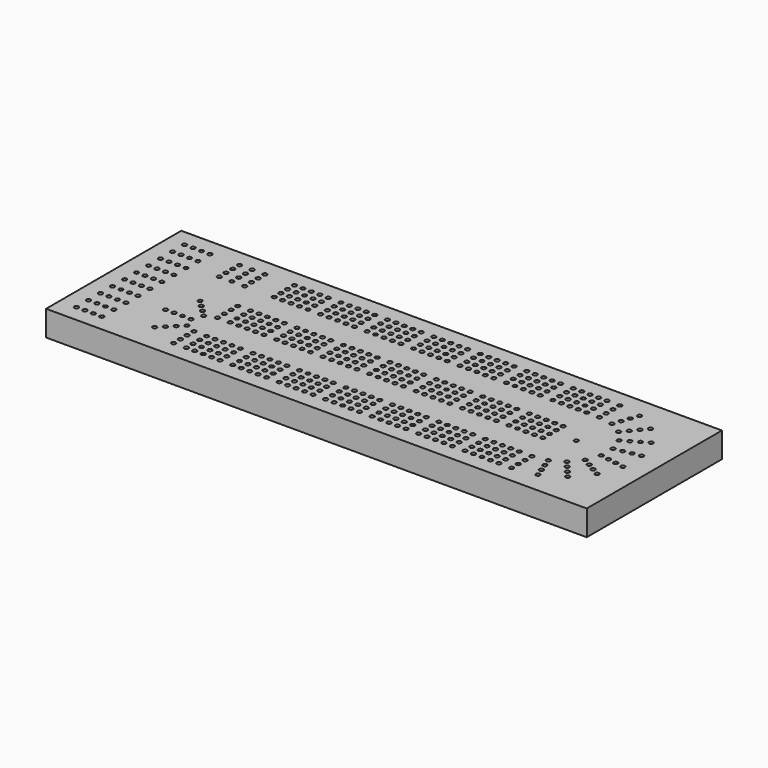
from build123d import *

# Parameters (mm, degrees)
F1_DEPTH = 19.05
F2_R     = 1.5875
F3_DEPTH = 9.525


with BuildPart() as f1:
    # F0 (on Top) → F1 (new body)
    with BuildSketch(Plane.XY):
        Polygon((-25.4, 0), (0, 0), (381, 0), (381, 127), (0, 127), (-25.4, 127), align=None)
    extrude(amount=F1_DEPTH)

    # F2 (on face) → F3 (cut)
    with BuildSketch(Plane.XY.offset(19.05)):
        with Locations((69.85, 114.3)):
            Circle(F2_R)
        with Locations((69.85, 107.95)):
            Circle(F2_R)
        with Locations((69.85, 101.6)):
            Circle(F2_R)
        with Locations((69.85, 95.25)):
            Circle(F2_R)
        with Locations((76.2, 114.3)):
            Circle(F2_R)
        with Locations((76.2, 107.95)):
            Circle(F2_R)
        with Locations((76.2, 101.6)):
            Circle(F2_R)
        with Locations((76.2, 95.25)):
            Circle(F2_R)
        with Locations((82.55, 114.3)):
            Circle(F2_R)
        with Locations((82.55, 107.95)):
            Circle(F2_R)
        with Locations((82.55, 101.6)):
            Circle(F2_R)
        with Locations((82.55, 95.25)):
            Circle(F2_R)
        with Locations((88.9, 114.3)):
            Circle(F2_R)
        with Locations((88.9, 107.95)):
            Circle(F2_R)
        with Locations((88.9, 101.6)):
            Circle(F2_R)
        with Locations((88.9, 95.25)):
            Circle(F2_R)
        with Locations((95.25, 114.3)):
            Circle(F2_R)
        with Locations((95.25, 107.95)):
            Circle(F2_R)
        with Locations((95.25, 101.6)):
            Circle(F2_R)
        with Locations((95.25, 95.25)):
            Circle(F2_R)
        with Locations((123.825, 95.25)):
            Circle(F2_R)
        with Locations((117.475, 95.25)):
            Circle(F2_R)
        with Locations((117.475, 114.3)):
            Circle(F2_R)
        with Locations((130.175, 95.25)):
            Circle(F2_R)
        with Locations((117.475, 107.95)):
            Circle(F2_R)
        with Locations((130.175, 114.3)):
            Circle(F2_R)
        with Locations((123.825, 114.3)):
            Circle(F2_R)
        with Locations((123.825, 107.95)):
            Circle(F2_R)
        with Locations((111.125, 95.25)):
            Circle(F2_R)
        with Locations((123.825, 101.6)):
            Circle(F2_R)
        with Locations((130.175, 107.95)):
            Circle(F2_R)
        with Locations((111.125, 107.95)):
            Circle(F2_R)
        with Locations((117.475, 101.6)):
            Circle(F2_R)
        with Locations((104.775, 101.6)):
            Circle(F2_R)
        with Locations((130.175, 101.6)):
            Circle(F2_R)
        with Locations((111.125, 101.6)):
            Circle(F2_R)
        with Locations((111.125, 114.3)):
            Circle(F2_R)
        with Locations((104.775, 107.95)):
            Circle(F2_R)
        with Locations((104.775, 114.3)):
            Circle(F2_R)
        with Locations((104.775, 95.25)):
            Circle(F2_R)
        with Locations((158.75, 95.25)):
            Circle(F2_R)
        with Locations((152.4, 95.25)):
            Circle(F2_R)
        with Locations((152.4, 114.3)):
            Circle(F2_R)
        with Locations((165.1, 95.25)):
            Circle(F2_R)
        with Locations((152.4, 107.95)):
            Circle(F2_R)
        with Locations((165.1, 114.3)):
            Circle(F2_R)
        with Locations((158.75, 114.3)):
            Circle(F2_R)
        with Locations((158.75, 107.95)):
            Circle(F2_R)
        with Locations((146.05, 95.25)):
            Circle(F2_R)
        with Locations((158.75, 101.6)):
            Circle(F2_R)
        with Locations((165.1, 107.95)):
            Circle(F2_R)
        with Locations((146.05, 107.95)):
            Circle(F2_R)
        with Locations((152.4, 101.6)):
            Circle(F2_R)
        with Locations((139.7, 101.6)):
            Circle(F2_R)
        with Locations((165.1, 101.6)):
            Circle(F2_R)
        with Locations((146.05, 101.6)):
            Circle(F2_R)
        with Locations((146.05, 114.3)):
            Circle(F2_R)
        with Locations((139.7, 107.95)):
            Circle(F2_R)
        with Locations((139.7, 114.3)):
            Circle(F2_R)
        with Locations((139.7, 95.25)):
            Circle(F2_R)
        with Locations((193.675, 95.25)):
            Circle(F2_R)
        with Locations((187.325, 95.25)):
            Circle(F2_R)
        with Locations((187.325, 114.3)):
            Circle(F2_R)
        with Locations((200.025, 95.25)):
            Circle(F2_R)
        with Locations((187.325, 107.95)):
            Circle(F2_R)
        with Locations((200.025, 114.3)):
            Circle(F2_R)
        with Locations((193.675, 114.3)):
            Circle(F2_R)
        with Locations((193.675, 107.95)):
            Circle(F2_R)
        with Locations((180.975, 95.25)):
            Circle(F2_R)
        with Locations((193.675, 101.6)):
            Circle(F2_R)
        with Locations((200.025, 107.95)):
            Circle(F2_R)
        with Locations((180.975, 107.95)):
            Circle(F2_R)
        with Locations((187.325, 101.6)):
            Circle(F2_R)
        with Locations((174.625, 101.6)):
            Circle(F2_R)
        with Locations((200.025, 101.6)):
            Circle(F2_R)
        with Locations((180.975, 101.6)):
            Circle(F2_R)
        with Locations((180.975, 114.3)):
            Circle(F2_R)
        with Locations((174.625, 107.95)):
            Circle(F2_R)
        with Locations((174.625, 114.3)):
            Circle(F2_R)
        with Locations((174.625, 95.25)):
            Circle(F2_R)
        with Locations((228.6, 95.25)):
            Circle(F2_R)
        with Locations((222.25, 95.25)):
            Circle(F2_R)
        with Locations((222.25, 114.3)):
            Circle(F2_R)
        with Locations((234.95, 95.25)):
            Circle(F2_R)
        with Locations((222.25, 107.95)):
            Circle(F2_R)
        with Locations((234.95, 114.3)):
            Circle(F2_R)
        with Locations((228.6, 114.3)):
            Circle(F2_R)
        with Locations((228.6, 107.95)):
            Circle(F2_R)
        with Locations((215.9, 95.25)):
            Circle(F2_R)
        with Locations((228.6, 101.6)):
            Circle(F2_R)
        with Locations((234.95, 107.95)):
            Circle(F2_R)
        with Locations((215.9, 107.95)):
            Circle(F2_R)
        with Locations((222.25, 101.6)):
            Circle(F2_R)
        with Locations((209.55, 101.6)):
            Circle(F2_R)
        with Locations((234.95, 101.6)):
            Circle(F2_R)
        with Locations((215.9, 101.6)):
            Circle(F2_R)
        with Locations((215.9, 114.3)):
            Circle(F2_R)
        with Locations((209.55, 107.95)):
            Circle(F2_R)
        with Locations((209.55, 114.3)):
            Circle(F2_R)
        with Locations((209.55, 95.25)):
            Circle(F2_R)
        with Locations((263.525, 95.25)):
            Circle(F2_R)
        with Locations((257.175, 95.25)):
            Circle(F2_R)
        with Locations((257.175, 114.3)):
            Circle(F2_R)
        with Locations((269.875, 95.25)):
            Circle(F2_R)
        with Locations((257.175, 107.95)):
            Circle(F2_R)
        with Locations((269.875, 114.3)):
            Circle(F2_R)
        with Locations((263.525, 114.3)):
            Circle(F2_R)
        with Locations((263.525, 107.95)):
            Circle(F2_R)
        with Locations((250.825, 95.25)):
            Circle(F2_R)
        with Locations((263.525, 101.6)):
            Circle(F2_R)
        with Locations((269.875, 107.95)):
            Circle(F2_R)
        with Locations((250.825, 107.95)):
            Circle(F2_R)
        with Locations((257.175, 101.6)):
            Circle(F2_R)
        with Locations((244.475, 101.6)):
            Circle(F2_R)
        with Locations((269.875, 101.6)):
            Circle(F2_R)
        with Locations((250.825, 101.6)):
            Circle(F2_R)
        with Locations((250.825, 114.3)):
            Circle(F2_R)
        with Locations((244.475, 107.95)):
            Circle(F2_R)
        with Locations((244.475, 114.3)):
            Circle(F2_R)
        with Locations((244.475, 95.25)):
            Circle(F2_R)
        with Locations((298.45, 95.25)):
            Circle(F2_R)
        with Locations((292.1, 95.25)):
            Circle(F2_R)
        with Locations((292.1, 114.3)):
            Circle(F2_R)
        with Locations((304.8, 95.25)):
            Circle(F2_R)
        with Locations((292.1, 107.95)):
            Circle(F2_R)
        with Locations((304.8, 114.3)):
            Circle(F2_R)
        with Locations((298.45, 114.3)):
            Circle(F2_R)
        with Locations((298.45, 107.95)):
            Circle(F2_R)
        with Locations((285.75, 95.25)):
            Circle(F2_R)
        with Locations((298.45, 101.6)):
            Circle(F2_R)
        with Locations((304.8, 107.95)):
            Circle(F2_R)
        with Locations((285.75, 107.95)):
            Circle(F2_R)
        with Locations((292.1, 101.6)):
            Circle(F2_R)
        with Locations((279.4, 101.6)):
            Circle(F2_R)
        with Locations((304.8, 101.6)):
            Circle(F2_R)
        with Locations((285.75, 101.6)):
            Circle(F2_R)
        with Locations((285.75, 114.3)):
            Circle(F2_R)
        with Locations((279.4, 107.95)):
            Circle(F2_R)
        with Locations((279.4, 114.3)):
            Circle(F2_R)
        with Locations((279.4, 95.25)):
            Circle(F2_R)
        with Locations((174.625, 12.7)):
            Circle(F2_R)
        with Locations((279.4, 12.7)):
            Circle(F2_R)
        with Locations((104.775, 12.7)):
            Circle(F2_R)
        with Locations((209.55, 12.7)):
            Circle(F2_R)
        with Locations((139.7, 12.7)):
            Circle(F2_R)
        with Locations((69.85, 12.7)):
            Circle(F2_R)
        with Locations((244.475, 12.7)):
            Circle(F2_R)
        with Locations((174.625, 19.05)):
            Circle(F2_R)
        with Locations((285.75, 12.7)):
            Circle(F2_R)
        with Locations((111.125, 12.7)):
            Circle(F2_R)
        with Locations((279.4, 19.05)):
            Circle(F2_R)
        with Locations((123.825, 31.75)):
            Circle(F2_R)
        with Locations((104.775, 19.05)):
            Circle(F2_R)
        with Locations((215.9, 12.7)):
            Circle(F2_R)
        with Locations((209.55, 19.05)):
            Circle(F2_R)
        with Locations((146.05, 12.7)):
            Circle(F2_R)
        with Locations((139.7, 19.05)):
            Circle(F2_R)
        with Locations((88.9, 31.75)):
            Circle(F2_R)
        with Locations((250.825, 12.7)):
            Circle(F2_R)
        with Locations((69.85, 19.05)):
            Circle(F2_R)
        with Locations((180.975, 12.7)):
            Circle(F2_R)
        with Locations((76.2, 12.7)):
            Circle(F2_R)
        with Locations((244.475, 19.05)):
            Circle(F2_R)
        with Locations((111.125, 25.4)):
            Circle(F2_R)
        with Locations((76.2, 19.05)):
            Circle(F2_R)
        with Locations((209.55, 25.4)):
            Circle(F2_R)
        with Locations((200.025, 31.75)):
            Circle(F2_R)
        with Locations((158.75, 25.4)):
            Circle(F2_R)
        with Locations((292.1, 31.75)):
            Circle(F2_R)
        with Locations((263.525, 19.05)):
            Circle(F2_R)
        with Locations((146.05, 19.05)):
            Circle(F2_R)
        with Locations((117.475, 31.75)):
            Circle(F2_R)
        with Locations((76.2, 31.75)):
            Circle(F2_R)
        with Locations((263.525, 25.4)):
            Circle(F2_R)
        with Locations((215.9, 25.4)):
            Circle(F2_R)
        with Locations((174.625, 31.75)):
            Circle(F2_R)
        with Locations((200.025, 12.7)):
            Circle(F2_R)
        with Locations((304.8, 31.75)):
            Circle(F2_R)
        with Locations((76.2, 25.4)):
            Circle(F2_R)
        with Locations((234.95, 25.4)):
            Circle(F2_R)
        with Locations((165.1, 19.05)):
            Circle(F2_R)
        with Locations((187.325, 19.05)):
            Circle(F2_R)
        with Locations((292.1, 12.7)):
            Circle(F2_R)
        with Locations((250.825, 31.75)):
            Circle(F2_R)
        with Locations((152.4, 25.4)):
            Circle(F2_R)
        with Locations((117.475, 12.7)):
            Circle(F2_R)
        with Locations((82.55, 12.7)):
            Circle(F2_R)
        with Locations((269.875, 19.05)):
            Circle(F2_R)
        with Locations((228.6, 31.75)):
            Circle(F2_R)
        with Locations((193.675, 12.7)):
            Circle(F2_R)
        with Locations((292.1, 19.05)):
            Circle(F2_R)
        with Locations((139.7, 25.4)):
            Circle(F2_R)
        with Locations((130.175, 31.75)):
            Circle(F2_R)
        with Locations((82.55, 19.05)):
            Circle(F2_R)
        with Locations((250.825, 19.05)):
            Circle(F2_R)
        with Locations((222.25, 31.75)):
            Circle(F2_R)
        with Locations((193.675, 19.05)):
            Circle(F2_R)
        with Locations((279.4, 31.75)):
            Circle(F2_R)
        with Locations((304.8, 12.7)):
            Circle(F2_R)
        with Locations((165.1, 25.4)):
            Circle(F2_R)
        with Locations((117.475, 19.05)):
            Circle(F2_R)
        with Locations((82.55, 25.4)):
            Circle(F2_R)
        with Locations((257.175, 25.4)):
            Circle(F2_R)
        with Locations((222.25, 12.7)):
            Circle(F2_R)
        with Locations((180.975, 31.75)):
            Circle(F2_R)
        with Locations((298.45, 12.7)):
            Circle(F2_R)
        with Locations((244.475, 25.4)):
            Circle(F2_R)
        with Locations((234.95, 31.75)):
            Circle(F2_R)
        with Locations((193.675, 25.4)):
            Circle(F2_R)
        with Locations((298.45, 19.05)):
            Circle(F2_R)
        with Locations((146.05, 25.4)):
            Circle(F2_R)
        with Locations((104.775, 31.75)):
            Circle(F2_R)
        with Locations((130.175, 12.7)):
            Circle(F2_R)
        with Locations((82.55, 31.75)):
            Circle(F2_R)
        with Locations((285.75, 31.75)):
            Circle(F2_R)
        with Locations((158.75, 31.75)):
            Circle(F2_R)
        with Locations((123.825, 12.7)):
            Circle(F2_R)
        with Locations((88.9, 12.7)):
            Circle(F2_R)
        with Locations((269.875, 25.4)):
            Circle(F2_R)
        with Locations((222.25, 19.05)):
            Circle(F2_R)
        with Locations((200.025, 19.05)):
            Circle(F2_R)
        with Locations((152.4, 31.75)):
            Circle(F2_R)
        with Locations((123.825, 19.05)):
            Circle(F2_R)
        with Locations((88.9, 19.05)):
            Circle(F2_R)
        with Locations((250.825, 25.4)):
            Circle(F2_R)
        with Locations((209.55, 31.75)):
            Circle(F2_R)
        with Locations((234.95, 12.7)):
            Circle(F2_R)
        with Locations((180.975, 19.05)):
            Circle(F2_R)
        with Locations((298.45, 25.4)):
            Circle(F2_R)
        with Locations((152.4, 12.7)):
            Circle(F2_R)
        with Locations((111.125, 31.75)):
            Circle(F2_R)
        with Locations((88.9, 25.4)):
            Circle(F2_R)
        with Locations((263.525, 31.75)):
            Circle(F2_R)
        with Locations((228.6, 12.7)):
            Circle(F2_R)
        with Locations((187.325, 25.4)):
            Circle(F2_R)
        with Locations((304.8, 19.05)):
            Circle(F2_R)
        with Locations((165.1, 31.75)):
            Circle(F2_R)
        with Locations((123.825, 25.4)):
            Circle(F2_R)
        with Locations((257.175, 31.75)):
            Circle(F2_R)
        with Locations((228.6, 19.05)):
            Circle(F2_R)
        with Locations((174.625, 25.4)):
            Circle(F2_R)
        with Locations((285.75, 19.05)):
            Circle(F2_R)
        with Locations((152.4, 19.05)):
            Circle(F2_R)
        with Locations((130.175, 19.05)):
            Circle(F2_R)
        with Locations((95.25, 12.7)):
            Circle(F2_R)
        with BuildLine():
            ThreePointArc((69.85, 33.3375), (68.727468, 30.627468), (71.4375, 31.75))
            ThreePointArc((71.4375, 31.75), (70.972532, 32.872532), (69.85, 33.3375))
        make_face()
        with BuildLine():
            ThreePointArc((71.4375, 53.975), (68.727468, 55.097532), (69.85, 52.3875))
            ThreePointArc((69.85, 52.3875), (70.972532, 52.852468), (71.4375, 53.975))
        make_face()
        with Locations((111.125, 19.05)):
            Circle(F2_R)
        with Locations((95.25, 19.05)):
            Circle(F2_R)
        with Locations((180.975, 25.4)):
            Circle(F2_R)
        with Locations((187.325, 31.75)):
            Circle(F2_R)
        with Locations((228.6, 25.4)):
            Circle(F2_R)
        with Locations((285.75, 25.4)):
            Circle(F2_R)
        with Locations((244.475, 31.75)):
            Circle(F2_R)
        with Locations((263.525, 12.7)):
            Circle(F2_R)
        with Locations((104.775, 25.4)):
            Circle(F2_R)
        with Locations((69.85, 25.4)):
            Circle(F2_R)
        with Locations((95.25, 25.4)):
            Circle(F2_R)
        with Locations((257.175, 12.7)):
            Circle(F2_R)
        with Locations((215.9, 31.75)):
            Circle(F2_R)
        with Locations((200.025, 25.4)):
            Circle(F2_R)
        with Locations((292.1, 25.4)):
            Circle(F2_R)
        with Locations((158.75, 12.7)):
            Circle(F2_R)
        with Locations((193.675, 31.75)):
            Circle(F2_R)
        with Locations((95.25, 31.75)):
            Circle(F2_R)
        with Locations((257.175, 19.05)):
            Circle(F2_R)
        with Locations((304.8, 25.4)):
            Circle(F2_R)
        with Locations((215.9, 19.05)):
            Circle(F2_R)
        with Locations((117.475, 25.4)):
            Circle(F2_R)
        with Locations((298.45, 31.75)):
            Circle(F2_R)
        with Locations((146.05, 31.75)):
            Circle(F2_R)
        with Locations((187.325, 12.7)):
            Circle(F2_R)
        with Locations((222.25, 25.4)):
            Circle(F2_R)
        with Locations((130.175, 25.4)):
            Circle(F2_R)
        with Locations((269.875, 12.7)):
            Circle(F2_R)
        with Locations((269.875, 31.75)):
            Circle(F2_R)
        with Locations((234.95, 19.05)):
            Circle(F2_R)
        with Locations((158.75, 19.05)):
            Circle(F2_R)
        with Locations((279.4, 25.4)):
            Circle(F2_R)
        with Locations((139.7, 31.75)):
            Circle(F2_R)
        with Locations((165.1, 12.7)):
            Circle(F2_R)
        with Locations((139.7, 73.025)):
            Circle(F2_R)
        with Locations((209.55, 73.025)):
            Circle(F2_R)
        with Locations((244.475, 73.025)):
            Circle(F2_R)
        with Locations((104.775, 73.025)):
            Circle(F2_R)
        with Locations((279.4, 73.025)):
            Circle(F2_R)
        with Locations((69.85, 73.025)):
            Circle(F2_R)
        with Locations((174.625, 73.025)):
            Circle(F2_R)
        with Locations((146.05, 73.025)):
            Circle(F2_R)
        with Locations((209.55, 66.675)):
            Circle(F2_R)
        with Locations((215.9, 73.025)):
            Circle(F2_R)
        with Locations((104.775, 66.675)):
            Circle(F2_R)
        with Locations((123.825, 53.975)):
            Circle(F2_R)
        with Locations((69.85, 66.675)):
            Circle(F2_R)
        with Locations((250.825, 73.025)):
            Circle(F2_R)
        with Locations((279.4, 66.675)):
            Circle(F2_R)
        with Locations((88.9, 53.975)):
            Circle(F2_R)
        with Locations((111.125, 73.025)):
            Circle(F2_R)
        with Locations((285.75, 73.025)):
            Circle(F2_R)
        with Locations((244.475, 66.675)):
            Circle(F2_R)
        with Locations((139.7, 66.675)):
            Circle(F2_R)
        with Locations((76.2, 73.025)):
            Circle(F2_R)
        with Locations((174.625, 66.675)):
            Circle(F2_R)
        with Locations((180.975, 73.025)):
            Circle(F2_R)
        with Locations((269.875, 60.325)):
            Circle(F2_R)
        with Locations((187.325, 60.325)):
            Circle(F2_R)
        with Locations((215.9, 66.675)):
            Circle(F2_R)
        with Locations((228.6, 60.325)):
            Circle(F2_R)
        with Locations((146.05, 66.675)):
            Circle(F2_R)
        with Locations((82.55, 73.025)):
            Circle(F2_R)
        with Locations((257.175, 60.325)):
            Circle(F2_R)
        with Locations((88.9, 73.025)):
            Circle(F2_R)
        with Locations((228.6, 73.025)):
            Circle(F2_R)
        with Locations((187.325, 53.975)):
            Circle(F2_R)
        with Locations((304.8, 60.325)):
            Circle(F2_R)
        with Locations((263.525, 66.675)):
            Circle(F2_R)
        with Locations((117.475, 73.025)):
            Circle(F2_R)
        with Locations((82.55, 60.325)):
            Circle(F2_R)
        with Locations((123.825, 73.025)):
            Circle(F2_R)
        with Locations((263.525, 53.975)):
            Circle(F2_R)
        with Locations((180.975, 60.325)):
            Circle(F2_R)
        with Locations((257.175, 66.675)):
            Circle(F2_R)
        with Locations((292.1, 53.975)):
            Circle(F2_R)
        with Locations((152.4, 60.325)):
            Circle(F2_R)
        with Locations((117.475, 66.675)):
            Circle(F2_R)
        with Locations((165.1, 73.025)):
            Circle(F2_R)
        with Locations((158.75, 53.975)):
            Circle(F2_R)
        with Locations((88.9, 60.325)):
            Circle(F2_R)
        with Locations((95.25, 66.675)):
            Circle(F2_R)
        with Locations((95.25, 53.975)):
            Circle(F2_R)
        with Locations((158.75, 60.325)):
            Circle(F2_R)
        with Locations((250.825, 53.975)):
            Circle(F2_R)
        with Locations((165.1, 60.325)):
            Circle(F2_R)
        with Locations((139.7, 53.975)):
            Circle(F2_R)
        with Locations((285.75, 53.975)):
            Circle(F2_R)
        with Locations((111.125, 53.975)):
            Circle(F2_R)
        with Locations((111.125, 66.675)):
            Circle(F2_R)
        with Locations((193.675, 53.975)):
            Circle(F2_R)
        with Locations((200.025, 53.975)):
            Circle(F2_R)
        with Locations((292.1, 73.025)):
            Circle(F2_R)
        with Locations((304.8, 73.025)):
            Circle(F2_R)
        with Locations((279.4, 60.325)):
            Circle(F2_R)
        with Locations((82.55, 53.975)):
            Circle(F2_R)
        with Locations((152.4, 73.025)):
            Circle(F2_R)
        with Locations((158.75, 73.025)):
            Circle(F2_R)
        with Locations((209.55, 60.325)):
            Circle(F2_R)
        with Locations((187.325, 66.675)):
            Circle(F2_R)
        with Locations((279.4, 53.975)):
            Circle(F2_R)
        with Locations((257.175, 53.975)):
            Circle(F2_R)
        with Locations((104.775, 60.325)):
            Circle(F2_R)
        with Locations((187.325, 73.025)):
            Circle(F2_R)
        with Locations((215.9, 60.325)):
            Circle(F2_R)
        with Locations((292.1, 66.675)):
            Circle(F2_R)
        with Locations((244.475, 60.325)):
            Circle(F2_R)
        with Locations((123.825, 66.675)):
            Circle(F2_R)
        with Locations((123.825, 60.325)):
            Circle(F2_R)
        with Locations((263.525, 73.025)):
            Circle(F2_R)
        with Locations((146.05, 53.975)):
            Circle(F2_R)
        with Locations((263.525, 60.325)):
            Circle(F2_R)
        with Locations((193.675, 73.025)):
            Circle(F2_R)
        with Locations((298.45, 73.025)):
            Circle(F2_R)
        with Locations((152.4, 53.975)):
            Circle(F2_R)
        with Locations((95.25, 73.025)):
            Circle(F2_R)
        with Locations((292.1, 60.325)):
            Circle(F2_R)
        with Locations((158.75, 66.675)):
            Circle(F2_R)
        with Locations((165.1, 66.675)):
            Circle(F2_R)
        with Locations((193.675, 66.675)):
            Circle(F2_R)
        with Locations((130.175, 73.025)):
            Circle(F2_R)
        with Locations((298.45, 60.325)):
            Circle(F2_R)
        with Locations((76.2, 66.675)):
            Circle(F2_R)
        with Locations((165.1, 53.975)):
            Circle(F2_R)
        with Locations((244.475, 53.975)):
            Circle(F2_R)
        with Locations((298.45, 53.975)):
            Circle(F2_R)
        with Locations((76.2, 53.975)):
            Circle(F2_R)
        with Locations((130.175, 66.675)):
            Circle(F2_R)
        with Locations((200.025, 60.325)):
            Circle(F2_R)
        with Locations((228.6, 53.975)):
            Circle(F2_R)
        with Locations((234.95, 66.675)):
            Circle(F2_R)
        with Locations((234.95, 60.325)):
            Circle(F2_R)
        with Locations((180.975, 53.975)):
            Circle(F2_R)
        with Locations((200.025, 66.675)):
            Circle(F2_R)
        with Locations((222.25, 53.975)):
            Circle(F2_R)
        with Locations((104.775, 53.975)):
            Circle(F2_R)
        with Locations((180.975, 66.675)):
            Circle(F2_R)
        with Locations((111.125, 60.325)):
            Circle(F2_R)
        with Locations((76.2, 60.325)):
            Circle(F2_R)
        with Locations((146.05, 60.325)):
            Circle(F2_R)
        with Locations((250.825, 66.675)):
            Circle(F2_R)
        with Locations((234.95, 73.025)):
            Circle(F2_R)
        with Locations((152.4, 66.675)):
            Circle(F2_R)
        with Locations((215.9, 53.975)):
            Circle(F2_R)
        with Locations((269.875, 53.975)):
            Circle(F2_R)
        with Locations((117.475, 53.975)):
            Circle(F2_R)
        with Locations((269.875, 66.675)):
            Circle(F2_R)
        with Locations((222.25, 73.025)):
            Circle(F2_R)
        with Locations((222.25, 66.675)):
            Circle(F2_R)
        with Locations((117.475, 60.325)):
            Circle(F2_R)
        with Locations((174.625, 60.325)):
            Circle(F2_R)
        with Locations((95.25, 60.325)):
            Circle(F2_R)
        with Locations((200.025, 73.025)):
            Circle(F2_R)
        with Locations((130.175, 53.975)):
            Circle(F2_R)
        with Locations((193.675, 60.325)):
            Circle(F2_R)
        with Locations((285.75, 60.325)):
            Circle(F2_R)
        with Locations((304.8, 66.675)):
            Circle(F2_R)
        with Locations((285.75, 66.675)):
            Circle(F2_R)
        with Locations((257.175, 73.025)):
            Circle(F2_R)
        with Locations((269.875, 73.025)):
            Circle(F2_R)
        with Locations((304.8, 53.975)):
            Circle(F2_R)
        with Locations((82.55, 66.675)):
            Circle(F2_R)
        with Locations((209.55, 53.975)):
            Circle(F2_R)
        with Locations((298.45, 66.675)):
            Circle(F2_R)
        with Locations((130.175, 60.325)):
            Circle(F2_R)
        with Locations((234.95, 53.975)):
            Circle(F2_R)
        with Locations((88.9, 66.675)):
            Circle(F2_R)
        with Locations((222.25, 60.325)):
            Circle(F2_R)
        with Locations((139.7, 60.325)):
            Circle(F2_R)
        with Locations((174.625, 53.975)):
            Circle(F2_R)
        with Locations((228.6, 66.675)):
            Circle(F2_R)
        with Locations((69.85, 60.325)):
            Circle(F2_R)
        with Locations((250.825, 60.325)):
            Circle(F2_R)
        with Locations((314.325, 101.6)):
            Circle(F2_R)
        with Locations((314.325, 107.95)):
            Circle(F2_R)
        with Locations((314.325, 114.3)):
            Circle(F2_R)
        with Locations((314.325, 95.25)):
            Circle(F2_R)
        with Locations((331.699623, 111.236385)):
            Circle(F2_R)
        with Locations((325.18414, 93.335241)):
            Circle(F2_R)
        with Locations((329.527795, 105.269337)):
            Circle(F2_R)
        with Locations((327.355967, 99.302289)):
            Circle(F2_R)
        with Locations((346.978611, 102.415058)):
            Circle(F2_R)
        with Locations((334.733507, 87.821911)):
            Circle(F2_R)
        with Locations((342.896909, 97.550675)):
            Circle(F2_R)
        with Locations((338.815208, 92.686293)):
            Circle(F2_R)
        with Locations((358.319091, 88.9)):
            Circle(F2_R)
        with Locations((341.821307, 79.375)):
            Circle(F2_R)
        with Locations((352.819829, 85.725)):
            Circle(F2_R)
        with Locations((347.320568, 82.55)):
            Circle(F2_R)
        with Locations((364.353234, 72.321327)):
            Circle(F2_R)
        with Locations((345.592646, 69.01333)):
            Circle(F2_R)
        with Locations((358.099705, 71.218661)):
            Circle(F2_R)
        with Locations((351.846175, 70.115996)):
            Circle(F2_R)
        with Locations((364.353234, 54.678673)):
            Circle(F2_R)
        with Locations((345.592646, 57.98667)):
            Circle(F2_R)
        with Locations((358.099705, 55.781339)):
            Circle(F2_R)
        with Locations((351.846175, 56.884004)):
            Circle(F2_R)
        with Locations((358.319091, 38.1)):
            Circle(F2_R)
        with Locations((341.821307, 47.625)):
            Circle(F2_R)
        with Locations((352.819829, 41.275)):
            Circle(F2_R)
        with Locations((347.320568, 44.45)):
            Circle(F2_R)
        with Locations((346.978611, 24.584942)):
            Circle(F2_R)
        with Locations((334.733507, 39.178089)):
            Circle(F2_R)
        with Locations((342.896909, 29.449325)):
            Circle(F2_R)
        with Locations((338.815208, 34.313707)):
            Circle(F2_R)
        with Locations((331.699623, 15.763615)):
            Circle(F2_R)
        with Locations((325.18414, 33.664759)):
            Circle(F2_R)
        with Locations((329.527795, 21.730663)):
            Circle(F2_R)
        with Locations((327.355967, 27.697711)):
            Circle(F2_R)
        with Locations((314.325, 12.7)):
            Circle(F2_R)
        with Locations((314.325, 31.75)):
            Circle(F2_R)
        with Locations((314.325, 19.05)):
            Circle(F2_R)
        with Locations((314.325, 25.4)):
            Circle(F2_R)
        with Locations((60.325, 73.025)):
            Circle(F2_R)
        with Locations((60.325, 53.975)):
            Circle(F2_R)
        with Locations((60.325, 66.675)):
            Circle(F2_R)
        with Locations((60.325, 60.325)):
            Circle(F2_R)
        with Locations((47.977148, 55.210352)):
            Circle(F2_R)
        with Locations((38.996892, 64.190608)):
            Circle(F2_R)
        with Locations((43.48702, 59.70048)):
            Circle(F2_R)
        with Locations((52.467276, 50.720224)):
            Circle(F2_R)
        with Locations((42.8625, 42.8625)):
            Circle(F2_R)
        with Locations((30.1625, 42.8625)):
            Circle(F2_R)
        with Locations((36.5125, 42.8625)):
            Circle(F2_R)
        with Locations((49.2125, 42.8625)):
            Circle(F2_R)
        with Locations((47.977148, 30.514648)):
            Circle(F2_R)
        with Locations((38.996892, 21.534392)):
            Circle(F2_R)
        with Locations((43.48702, 26.02452)):
            Circle(F2_R)
        with Locations((52.467276, 35.004776)):
            Circle(F2_R)
        with Locations((60.325, 25.4)):
            Circle(F2_R)
        with Locations((60.325, 12.7)):
            Circle(F2_R)
        with Locations((60.325, 19.05)):
            Circle(F2_R)
        with Locations((60.325, 31.75)):
            Circle(F2_R)
        with BuildLine():
            ThreePointArc((320.801626, 63.5), (322.389126, 61.9125), (323.976626, 63.5))
            ThreePointArc((323.976626, 63.5), (322.389126, 65.0875), (320.801626, 63.5))
        make_face()
        with Locations((-12.7, 114.3)):
            Circle(F2_R)
        with Locations((-12.7, 103.011111)):
            Circle(F2_R)
        with Locations((-12.7, 91.722222)):
            Circle(F2_R)
        with Locations((-12.7, 80.433333)):
            Circle(F2_R)
        with Locations((-12.7, 69.144444)):
            Circle(F2_R)
        with Locations((-12.7, 57.855556)):
            Circle(F2_R)
        with Locations((-12.7, 46.566667)):
            Circle(F2_R)
        with Locations((-12.7, 35.277778)):
            Circle(F2_R)
        with Locations((-12.7, 23.988889)):
            Circle(F2_R)
        with Locations((-12.7, 12.7)):
            Circle(F2_R)
        with Locations((-6.35, 114.3)):
            Circle(F2_R)
        with Locations((-6.35, 103.011111)):
            Circle(F2_R)
        with Locations((-6.35, 91.722222)):
            Circle(F2_R)
        with Locations((-6.35, 80.433333)):
            Circle(F2_R)
        with Locations((-6.35, 69.144444)):
            Circle(F2_R)
        with Locations((-6.35, 57.855556)):
            Circle(F2_R)
        with Locations((-6.35, 46.566667)):
            Circle(F2_R)
        with Locations((-6.35, 35.277778)):
            Circle(F2_R)
        with Locations((-6.35, 23.988889)):
            Circle(F2_R)
        with Locations((-6.35, 12.7)):
            Circle(F2_R)
        with Locations((0, 114.3)):
            Circle(F2_R)
        with Locations((0, 103.011111)):
            Circle(F2_R)
        with Locations((0, 91.722222)):
            Circle(F2_R)
        with Locations((0, 80.433333)):
            Circle(F2_R)
        with Locations((0, 69.144444)):
            Circle(F2_R)
        with Locations((0, 57.855556)):
            Circle(F2_R)
        with Locations((0, 46.566667)):
            Circle(F2_R)
        with Locations((0, 35.277778)):
            Circle(F2_R)
        with Locations((0, 23.988889)):
            Circle(F2_R)
        with Locations((0, 12.7)):
            Circle(F2_R)
        with Locations((6.35, 114.3)):
            Circle(F2_R)
        with Locations((6.35, 103.011111)):
            Circle(F2_R)
        with Locations((6.35, 91.722222)):
            Circle(F2_R)
        with Locations((6.35, 80.433333)):
            Circle(F2_R)
        with Locations((6.35, 69.144444)):
            Circle(F2_R)
        with Locations((6.35, 57.855556)):
            Circle(F2_R)
        with Locations((6.35, 46.566667)):
            Circle(F2_R)
        with Locations((6.35, 35.277778)):
            Circle(F2_R)
        with Locations((6.35, 23.988889)):
            Circle(F2_R)
        with Locations((6.35, 12.7)):
            Circle(F2_R)
        with Locations((28.575, 114.3)):
            Circle(F2_R)
        with Locations((28.575, 107.95)):
            Circle(F2_R)
        with Locations((28.575, 101.6)):
            Circle(F2_R)
        with Locations((28.575, 95.25)):
            Circle(F2_R)
        with Locations((38.1, 114.3)):
            Circle(F2_R)
        with Locations((38.1, 107.95)):
            Circle(F2_R)
        with Locations((38.1, 101.6)):
            Circle(F2_R)
        with Locations((38.1, 95.25)):
            Circle(F2_R)
        with Locations((47.625, 114.3)):
            Circle(F2_R)
        with Locations((47.625, 107.95)):
            Circle(F2_R)
        with Locations((47.625, 101.6)):
            Circle(F2_R)
        with Locations((47.625, 95.25)):
            Circle(F2_R)
    extrude(amount=-F3_DEPTH, mode=Mode.SUBTRACT)


solid = f1.part
